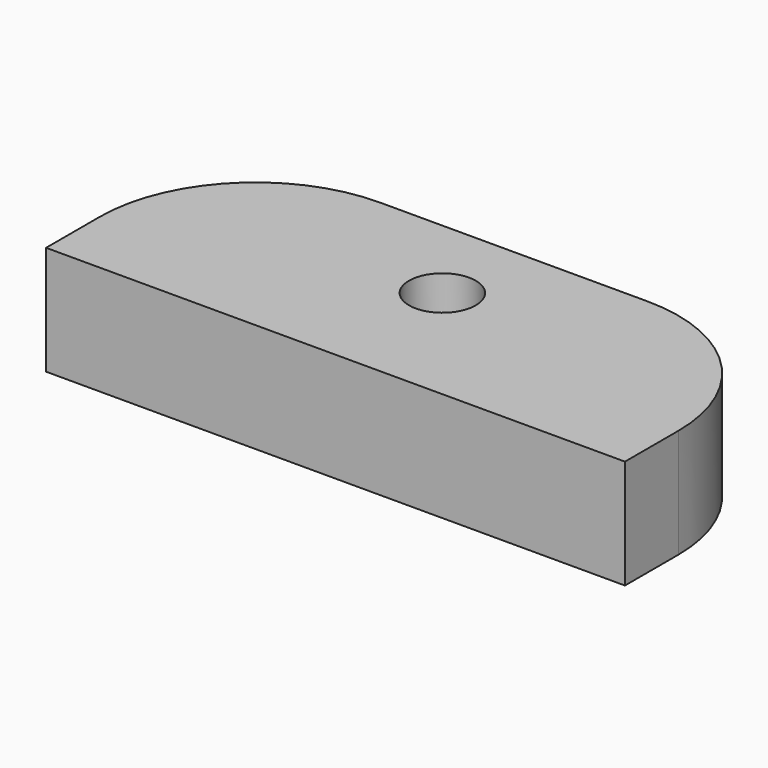
from build123d import *

# Parameters (mm, degrees)
F1_DEPTH = 10
F0_W     = 26
F0_H     = 12
F2_DEPTH = 5
F3_D     = 3
F5_DEPTH = 4.9
F6_D     = 3


with BuildPart() as f1:
    # F0 (on Top) → F1 (new body)
    with BuildSketch(Plane.XY):
        Polygon((20.9, 30.9), (20.9, 16.5), (17.9, 16.5), (17.9, 13.2), (19.4, 11.7), (20.9, 11.7), (20.9, 4.9), (14.1, 4.9), (14.1, 6.4), (12.6, 7.9), (9.3, 7.9), (9.3, 4.9), (-5.1, 4.9), (-5.1, -0.1), (20.9, -0.1), (25.9, 4.9), (25.9, 30.9), align=None)
    extrude(amount=F1_DEPTH)

    # F0 (on Top) → F2 (join)
    with BuildSketch(Plane.XY):
        with Locations((7.9, -6.1)):
            Rectangle(F0_W, F0_H)
    extrude(amount=F2_DEPTH)

    # F3 (through all)
    with Locations(Plane(origin=(0, 0, 0), x_dir=(1, 0, 0), z_dir=(0, 0, -1))):
        with Locations((7.8999996185, 8.1)):
            Hole(F3_D / 2)


with BuildPart() as f5:
    # F4 (on Top) → F5 (new body)
    with BuildSketch(Plane.XY):
        with BuildLine():
            ThreePointArc((20.9, -19.2), (18.8497474683, -14.2502525317), (13.9, -12.2))
            Line((13.9, -12.2), (1.9, -12.2))
            ThreePointArc((1.9, -12.2), (-3.0497474683, -14.2502525317), (-5.1, -19.2))
            Line((-5.1, -19.2), (-5.1, -22.2))
            Line((-5.1, -22.2), (20.9, -22.2))
            Line((20.9, -22.2), (20.9, -19.2))
        make_face()
    extrude(amount=F5_DEPTH)

    # F6 (through all)
    with Locations(Plane(origin=(0, 0, 0), x_dir=(1, 0, 0), z_dir=(0, 0, -1))):
        with Locations((7.9, 16.2)):
            Hole(F6_D / 2)


solid = f5.part
